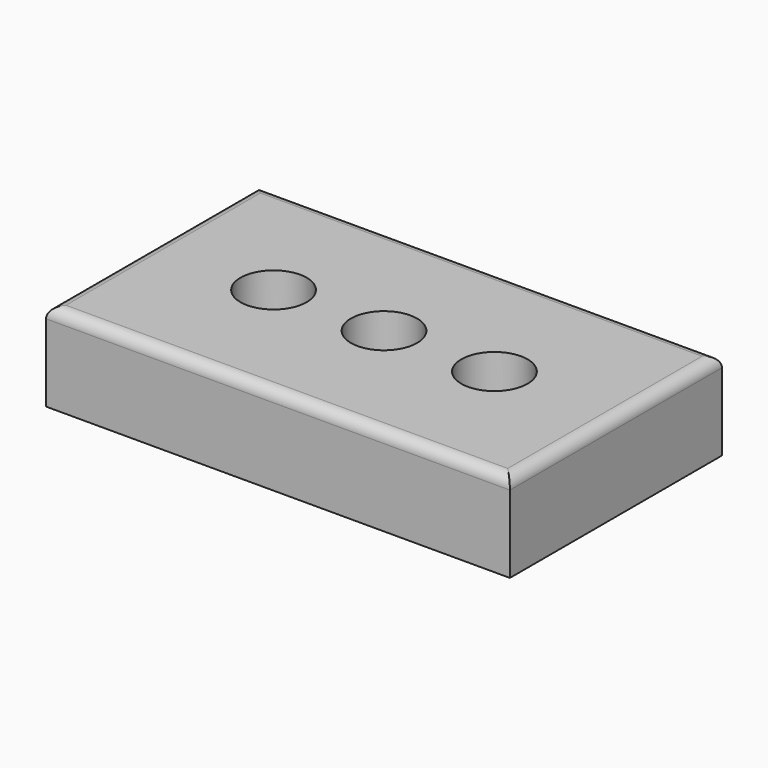
from build123d import *

# Parameters (mm, degrees)
F0_W     = 105
F0_H     = 60
F0_R     = 7.5
F1_DEPTH = 20
F2_R     = 2.5


with BuildPart() as f1:
    # F0 (on Top) → F1 (new body)
    with BuildSketch(Plane.XY):
        Rectangle(F0_W, F0_H)
        with Locations((-25, 0)):
            Circle(F0_R, mode=Mode.SUBTRACT)
        with BuildLine():
            ThreePointArc((-7.5, 0), (0, 7.5), (7.5, 0))
            ThreePointArc((7.5, 0), (0, -7.5), (-7.5, 0))
        make_face(mode=Mode.SUBTRACT)
        with BuildLine():
            ThreePointArc((32.5, 0), (25, -7.5), (17.5, 0))
            ThreePointArc((17.5, 0), (25, 7.5), (32.5, 0))
        make_face(mode=Mode.SUBTRACT)
    extrude(amount=F1_DEPTH)

    # F2
    f2_edges = [f1.edges().sort_by_distance(p)[0] for p in [
        (-52.5, 0, 20),
        (0, 30, 20),
        (52.5, 0, 20),
        (0, -30, 20),
    ]]
    fillet(f2_edges, radius=F2_R)


solid = f1.part
